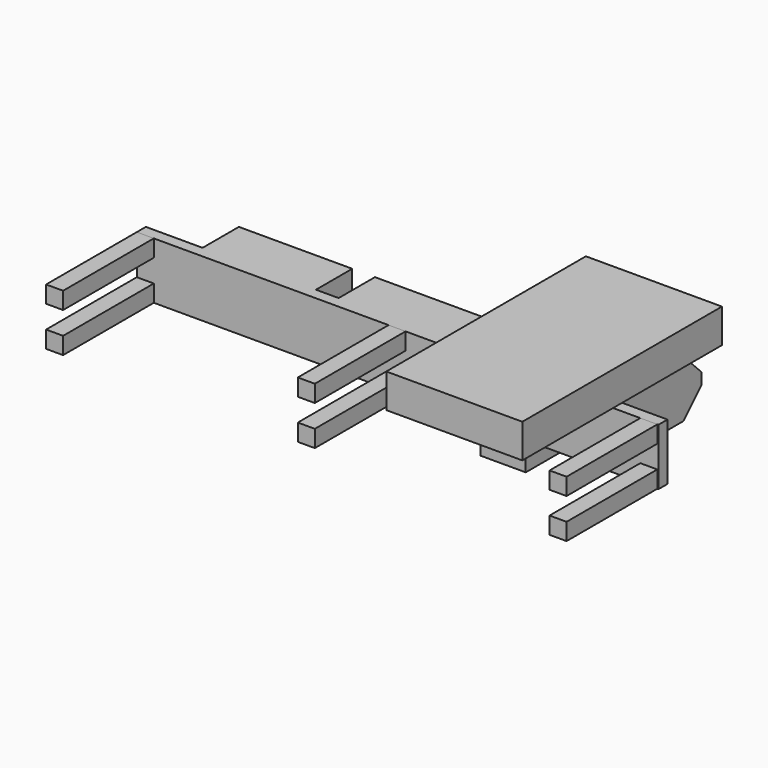
from build123d import *

# Parameters (mm, degrees)
F0_W      = 460
F0_H      = 50
F1_DEPTH  = 10
F2_W      = 15
F2_H      = 15
F3_DEPTH  = 100
F4_W      = 100
F4_H      = 50
F5_DEPTH  = 40
F6_W      = 100
F6_H      = 50
F7_DEPTH  = 60
F8_SIZE   = 20
F9_W      = 120
F9_H      = 100
F10_DEPTH = 30
F11_W     = 40
F11_H     = 65
F11_H_2   = 15
F12_DEPTH = 15
F13_W     = 15
F13_H     = 30
F14_DEPTH = 360.6


with BuildPart() as f1:
    # F0 (on Front) → F1 (new body)
    with BuildSketch(Plane.XZ):
        with Locations((230, 25)):
            Rectangle(F0_W, F0_H)
    extrude(amount=F1_DEPTH)

    # F4 (on face) → F5 (join)
    with BuildSketch(Plane(origin=(0, 0, 0), x_dir=(-1, 0, 0), z_dir=(0, 1, 0))):
        with Locations((-360, 25)):
            Rectangle(F4_W, F4_H)
        with Locations((-220, 25)):
            Rectangle(F4_W, F4_H)
        with Locations((-100, 25)):
            Rectangle(F4_W, F4_H)
    extrude(amount=F5_DEPTH)

    # F6 (on face) → F7 (join)
    with BuildSketch(Plane(origin=(0, 40, 0), x_dir=(-1, 0, 0), z_dir=(0, 1, 0))):
        with Locations((-360, 25)):
            Rectangle(F6_W, F6_H)
    extrude(amount=F7_DEPTH)

    # F8
    f8_edges = [f1.edges().sort_by_distance(p)[0] for p in [
        (360, 100, 0),
        (360, 100, 50),
    ]]
    chamfer(f8_edges, length=F8_SIZE)

    # F11 (on face) → F12 (join)
    with BuildSketch(Plane(origin=(0, 0, 0), x_dir=(1, 0, 0), z_dir=(0, 0, -1))):
        with Locations((335, -22.5)):
            Rectangle(F11_W, F11_H)
        with Locations((335, 17.5)):
            Rectangle(F11_W, F11_H_2)
    extrude(amount=F12_DEPTH)

    # F13 (on face) → F14 (cut)
    with BuildSketch(Plane.YZ.offset(410)):
        with Locations((7.5, 25)):
            Rectangle(F13_W, F13_H)
    extrude(amount=-F14_DEPTH, mode=Mode.SUBTRACT)


with BuildPart() as f3:
    # F2 (on face) → F3 (new body)
    with BuildSketch(Plane.XZ.offset(10)):
        with Locations((7.5, 42.5)):
            Rectangle(F2_W, F2_H)
    extrude(amount=F3_DEPTH)


with BuildPart() as f3b:
    # F2 (on face) → F3, piece 2 (new body)
    with BuildSketch(Plane.XZ.offset(10)):
        with Locations((7.5, 7.5)):
            Rectangle(F2_W, F2_H)
    extrude(amount=F3_DEPTH)


with BuildPart() as f3c:
    # F2 (on face) → F3, piece 3 (new body)
    with BuildSketch(Plane.XZ.offset(10)):
        with Locations((229.5, 42.5)):
            Rectangle(F2_W, F2_H)
    extrude(amount=F3_DEPTH)


with BuildPart() as f3d:
    # F2 (on face) → F3, piece 4 (new body)
    with BuildSketch(Plane.XZ.offset(10)):
        with Locations((229.5, 7.5)):
            Rectangle(F2_W, F2_H)
    extrude(amount=F3_DEPTH)


with BuildPart() as f3e:
    # F2 (on face) → F3, piece 5 (new body)
    with BuildSketch(Plane.XZ.offset(10)):
        with Locations((451.5, 42.5)):
            Rectangle(F2_W, F2_H)
    extrude(amount=F3_DEPTH)


with BuildPart() as f3f:
    # F2 (on face) → F3, piece 6 (new body)
    with BuildSketch(Plane.XZ.offset(10)):
        with Locations((451.5, 7.5)):
            Rectangle(F2_W, F2_H)
    extrude(amount=F3_DEPTH)


with BuildPart() as f10:
    # F9 (on face) → F10 (new body)
    with BuildSketch(Plane.XY.offset(50)):
        with Locations((360, -60)):
            Rectangle(F9_W, F9_H)
        Polygon((420, 110), (300, 110), (300, 0), (310, 0), (310, 80), (410, 80), (410, 0), (420, 0), align=None)
        Polygon((310, 0), (300, 0), (300, -10), (420, -10), (420, 0), (410, 0), (410, 80), (310, 80), align=None)
    extrude(amount=F10_DEPTH)


solid = Compound([f1.part, f3.part, f3b.part, f3c.part, f3d.part, f3e.part, f3f.part, f10.part])
